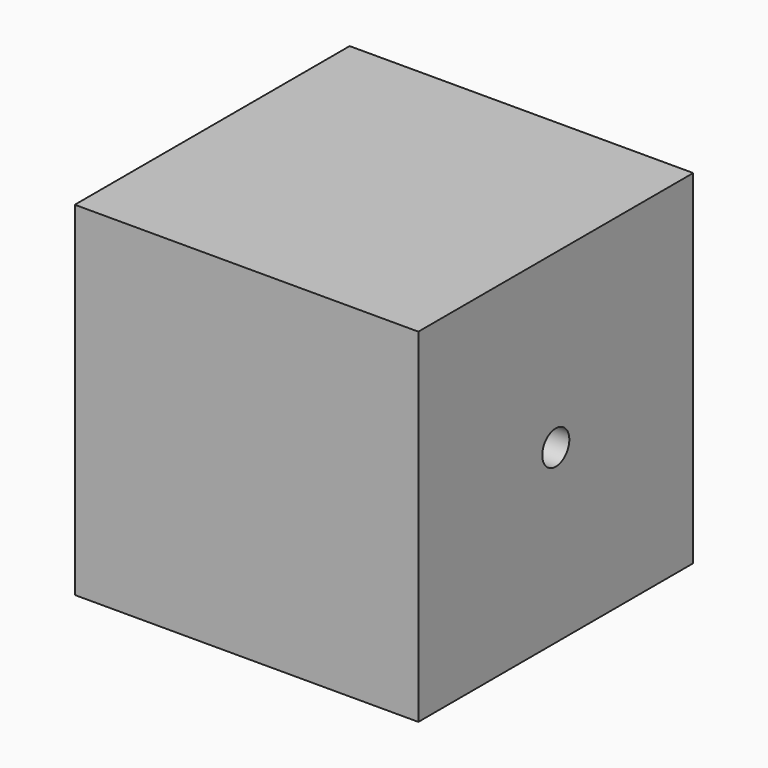
from build123d import *

# Parameters (mm, degrees)
F0_W     = 24.13
F0_H     = 24.13
F1_DEPTH = 24.13
F3_D     = 2.3749
F3_DEPTH = 14.2875
F3_TIP   = 0.7134919421
F5_D     = 2.3749
F5_DEPTH = 14.3002
F5_TIP   = 0.7134919421
F7_D     = 2.3749
F7_DEPTH = 14.3002
F7_TIP   = 0.7134919421


with BuildPart() as f1:
    # F0 (on Top) → F1 (new body)
    with BuildSketch(Plane.XY):
        Rectangle(F0_W, F0_H)
    extrude(amount=F1_DEPTH)

    # F3
    with Locations(Plane.YZ.offset(12.065)):
        with Locations((0, 12.065)):
            Hole(F3_D / 2, depth=F3_DEPTH)
            with Locations((0, 0, -(F3_DEPTH + F3_TIP / 2))):  # 118° drill point
                Cone(0, F3_D / 2, F3_TIP, mode=Mode.SUBTRACT)

    # F5
    with Locations(Plane(origin=(0, 0, 0), x_dir=(1, 0, 0), z_dir=(0, 0, -1))):
        with Locations((0.0603985645, 0)):
            Hole(F5_D / 2, depth=F5_DEPTH)
            with Locations((0, 0, -(F5_DEPTH + F5_TIP / 2))):  # 118° drill point
                Cone(0, F5_D / 2, F5_TIP, mode=Mode.SUBTRACT)

    # F7
    with Locations(Plane(origin=(0, 12.065, 0), x_dir=(-1, 0, 0), z_dir=(0, 1, 0))):
        with Locations((0, 12.065)):
            Hole(F7_D / 2, depth=F7_DEPTH)
            with Locations((0, 0, -(F7_DEPTH + F7_TIP / 2))):  # 118° drill point
                Cone(0, F7_D / 2, F7_TIP, mode=Mode.SUBTRACT)


solid = f1.part
